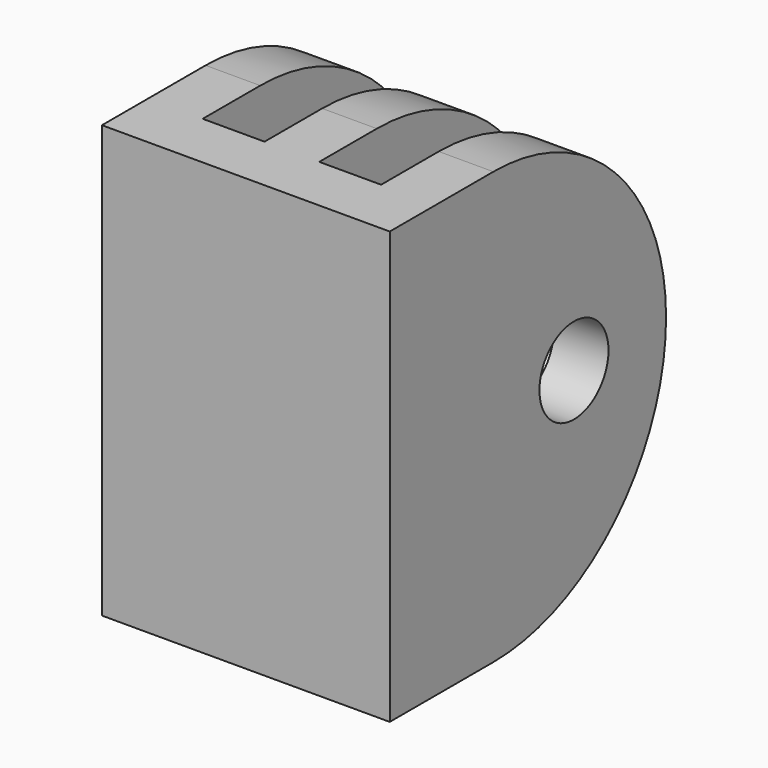
from build123d import *

# Parameters (mm, degrees)
F0_W     = 20
F0_H     = 30
F1_DEPTH = 4
F2_W     = 3.8
F2_H     = 30
F3_DEPTH = 20
F5_DEPTH = 25
F6_R     = 3
F7_DEPTH = 25


with BuildPart() as f1:
    # F0 (on Front) → F1 (new body)
    with BuildSketch(Plane.XZ):
        Rectangle(F0_W, F0_H)
    extrude(amount=-F1_DEPTH)

    # F2 (on face) → F3 (join)
    with BuildSketch(Plane(origin=(0, 4, 0), x_dir=(-1, 0, 0), z_dir=(0, 1, 0))):
        with Locations((-8.1, 0)):
            Rectangle(F2_W, F2_H)
        with Locations((8.1, 0)):
            Rectangle(F2_W, F2_H)
        Rectangle(F2_W, F2_H)
    extrude(amount=F3_DEPTH)

    # F4 (on face) → F5 (cut)
    with BuildSketch(Plane.YZ.offset(10)):
        with BuildLine():
            ThreePointArc((9, 15), (19.606602, 10.606602), (24, 0))
            Line((24, 0), (24, 15))
            Line((24, 15), (9, 15))
        make_face()
        with BuildLine():
            Line((24, -15), (24, 0))
            ThreePointArc((24, 0), (19.606602, -10.606602), (9, -15))
            Line((9, -15), (24, -15))
        make_face()
    extrude(amount=-F5_DEPTH, mode=Mode.SUBTRACT)

    # F6 (on face) → F7 (cut)
    with BuildSketch(Plane.YZ.offset(10)):
        with Locations((16, 0)):
            Circle(F6_R)
    extrude(amount=-F7_DEPTH, mode=Mode.SUBTRACT)


solid = f1.part
